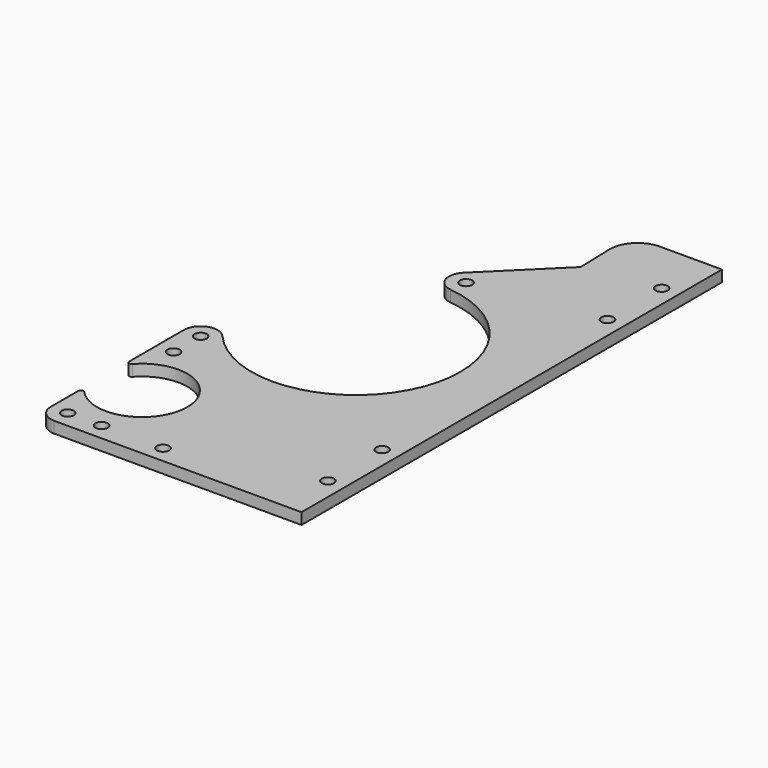
from build123d import *

# Parameters (mm, degrees)
F0_R     = 1.7272
F1_DEPTH = 3.175
F2_R     = 0.762


with BuildPart() as f1:
    # F0 (on Top) → F1 (new body)
    with BuildSketch(Plane.XY):
        with BuildLine():
            Line((-25.750805, -73.88963), (43.790972, -73.88963))
            Line((43.790972, -73.88963), (43.790972, 73.88963))
            Line((43.790972, 73.88963), (26.324776, 73.88963))
            ThreePointArc((26.324776, 73.88963), (20.730742, 71.525126), (18.528473, 65.865257))
            Line((18.528473, 65.865257), (18.82983, 55.415228))
            Line((18.82983, 55.415228), (0.468945, 37.308589))
            ThreePointArc((0.468945, 37.308589), (-0.687524, 32.359758), (3.280937, 29.184909))
            ThreePointArc((3.280937, 29.184909), (26.003765, -13.65019), (-22.15767, -19.275922))
            ThreePointArc((-22.15767, -19.275922), (-27.419502, -17.941157), (-30.513305, -22.401747))
            Line((-30.513305, -22.401747), (-30.513305, -43.822152))
            ThreePointArc((-30.513305, -43.822152), (-7.010584, -50.526938), (-30.513305, -57.231725))
            Line((-30.513305, -57.231725), (-30.513305, -69.12713))
            ThreePointArc((-30.513305, -69.12713), (-29.118401, -72.494726), (-25.750805, -73.88963))
        make_face()
        with Locations((-25.750805, -69.12713)):
            Circle(F0_R, mode=Mode.SUBTRACT)
        with Locations((-16.225805, -69.12713)):
            Circle(F0_R, mode=Mode.SUBTRACT)
        with Locations((1.046195, -69.12713)):
            Circle(F0_R, mode=Mode.SUBTRACT)
        with Locations((-25.750805, -31.926747)):
            Circle(F0_R, mode=Mode.SUBTRACT)
        with Locations((-25.750805, -22.401747)):
            Circle(F0_R, mode=Mode.SUBTRACT)
        with Locations((39.028472, -58.64963)):
            Circle(F0_R, mode=Mode.SUBTRACT)
        with Locations((39.028472, -39.59963)):
            Circle(F0_R, mode=Mode.SUBTRACT)
        with Locations((3.812981, 33.917597)):
            Circle(F0_R, mode=Mode.SUBTRACT)
        with Locations((39.028472, 39.59963)):
            Circle(F0_R, mode=Mode.SUBTRACT)
        with Locations((39.028472, 58.64963)):
            Circle(F0_R, mode=Mode.SUBTRACT)
    extrude(amount=F1_DEPTH)

    # F2
    f2_edges = [f1.edges().sort_by_distance(p)[0] for p in [
        (-30.513305, -43.822152, 1.5875),
        (-30.513305, -57.231725, 1.5875),
    ]]
    fillet(f2_edges, radius=F2_R)


solid = f1.part
